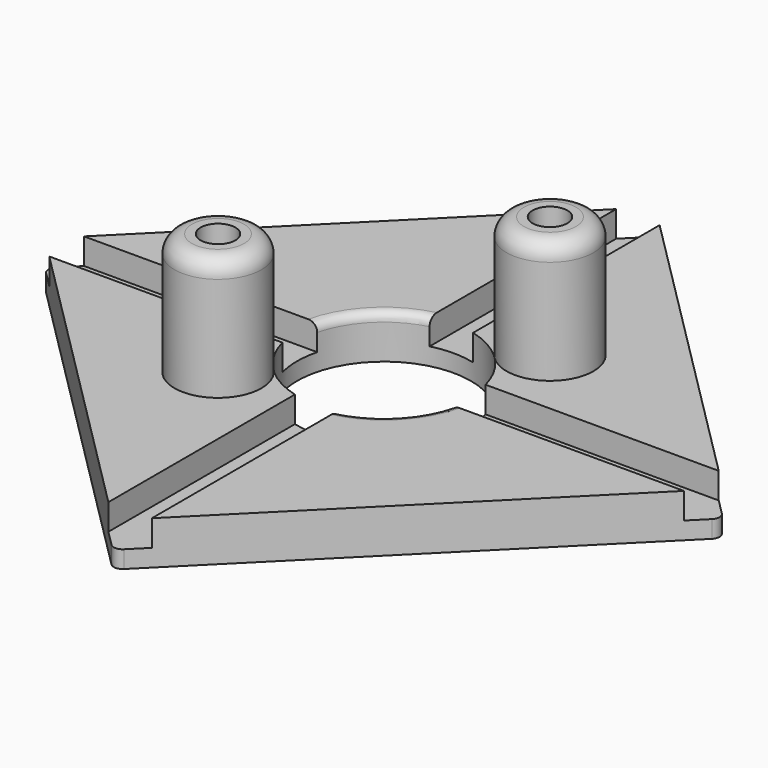
from build123d import *

# Parameters (mm, degrees)
PAD_DEPTH       = 5
POCKET_DEPTH    = 3
SKETCH002_R     = 5
SKETCH002_R_2   = 2
PAD001_DEPTH    = 14
FILLET_R        = 1
FILLET001_R     = 1
FILLET002_R     = 1
FILLET003_R     = 1
SKETCH003_R     = 10
POCKET001_DEPTH = 5.001
SKETCH004_R     = 2
POCKET002_DEPTH = 5.001
FILLET004_R     = 1
FILLET005_R     = 1
FILLET006_R     = 2
FILLET007_R     = 2


with BuildPart() as part:
    # Sketch → Pad (new body)
    with BuildSketch(Plane.XY):
        Polygon((0, 39), (-39, 0), (0, -39), (39, 0), align=None)
    extrude(amount=PAD_DEPTH)

    # Sketch001 → Pocket (cut)
    with BuildSketch(Plane.XY.offset(5)):
        Polygon((-42.5, 2.5), (-2.5, 2.5), (-2.5, 42.5), (2.5, 42.5), (2.5, 2.5), (42.5, 2.5), (42.5, -2.5), (2.5, -2.5), (2.5, -42.5), (-2.5, -42.5), (-2.5, -2.5), (-42.5, -2.5), align=None)
    extrude(amount=-POCKET_DEPTH, mode=Mode.SUBTRACT)

    # Sketch002 → Pad001 (new body)
    with BuildSketch(Plane.XY.offset(5)):
        with Locations((10.606602, 10.606602)):
            Circle(SKETCH002_R)
        with Locations((10.606602, 10.606602)):
            Circle(SKETCH002_R_2, mode=Mode.SUBTRACT)
        with Locations((-10.606602, -10.606602)):
            Circle(SKETCH002_R)
        with Locations((-10.606602, -10.606602)):
            Circle(SKETCH002_R_2, mode=Mode.SUBTRACT)
    extrude(amount=PAD001_DEPTH)

    # Fillet
    fillet_edges = [part.edges().sort_by_distance(p)[0] for p in [
        (-39, 0, 1),
    ]]
    fillet(fillet_edges, radius=FILLET_R)

    # Fillet001
    fillet001_edges = [part.edges().sort_by_distance(p)[0] for p in [
        (0, -39, 1),
    ]]
    fillet(fillet001_edges, radius=FILLET001_R)

    # Fillet002
    fillet002_edges = [part.edges().sort_by_distance(p)[0] for p in [
        (39, 0, 1),
    ]]
    fillet(fillet002_edges, radius=FILLET002_R)

    # Fillet003
    fillet003_edges = [part.edges().sort_by_distance(p)[0] for p in [
        (0, 39, 1),
    ]]
    fillet(fillet003_edges, radius=FILLET003_R)

    # Sketch003 → Pocket001 (cut, through all)
    with BuildSketch(Plane.XY.offset(5)):
        Circle(SKETCH003_R)
    extrude(amount=-POCKET001_DEPTH, mode=Mode.SUBTRACT)

    # Sketch004 → Pocket002 (cut, through all)
    with BuildSketch(Plane.XY.offset(5)):
        with Locations((-10.606602, -10.606602)):
            Circle(SKETCH004_R)
        with Locations((10.606602, 10.606602)):
            Circle(SKETCH004_R)
    extrude(amount=-POCKET002_DEPTH, mode=Mode.SUBTRACT)

    # Fillet004
    fillet004_edges = [part.edges().sort_by_distance(p)[0] for p in [
        (-7.071068, 7.071068, 5),
    ]]
    fillet(fillet004_edges, radius=FILLET004_R)

    # Fillet005
    fillet005_edges = [part.edges().sort_by_distance(p)[0] for p in [
        (7.071068, -7.071068, 5),
    ]]
    fillet(fillet005_edges, radius=FILLET005_R)

    # Fillet006
    fillet006_edges = [part.edges().sort_by_distance(p)[0] for p in [
        (5.606602, 10.606602, 19),
    ]]
    fillet(fillet006_edges, radius=FILLET006_R)

    # Fillet007
    fillet007_edges = [part.edges().sort_by_distance(p)[0] for p in [
        (-15.606602, -10.606602, 19),
    ]]
    fillet(fillet007_edges, radius=FILLET007_R)


solid = part.part
